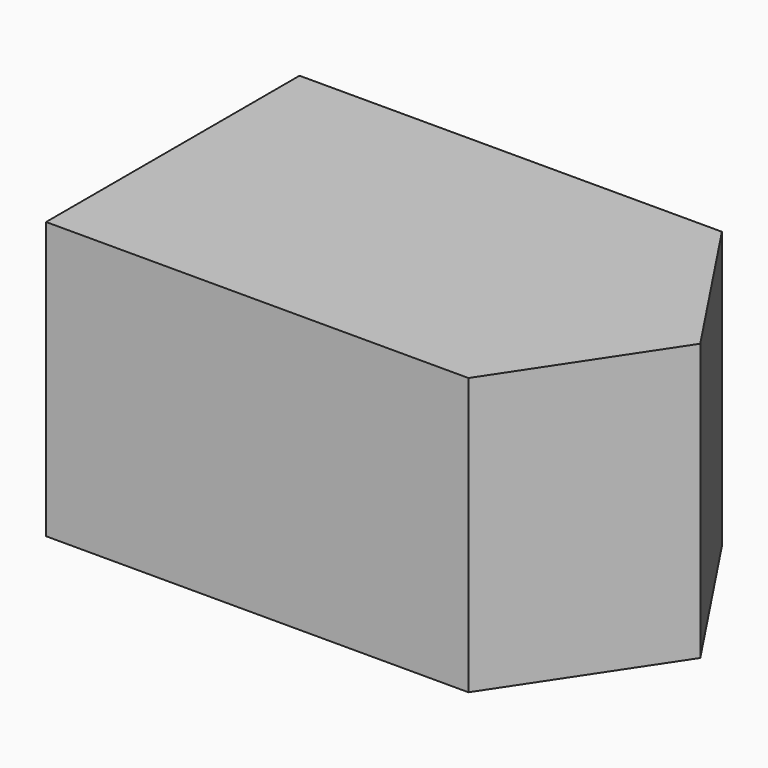
from build123d import *

# Parameters (mm, degrees)
F0_W     = 20
F0_H     = 15
F1_DEPTH = 13.1


with BuildPart() as f1:
    # F0 (on Top) → F1 (new body)
    with BuildSketch(Plane.XY):
        with Locations((-3.063825, 0)):
            Rectangle(F0_W, F0_H)
        Polygon((11.911112, 0), (6.936175, 7.5), (6.936175, -7.5), align=None)
    extrude(amount=F1_DEPTH)


solid = f1.part
